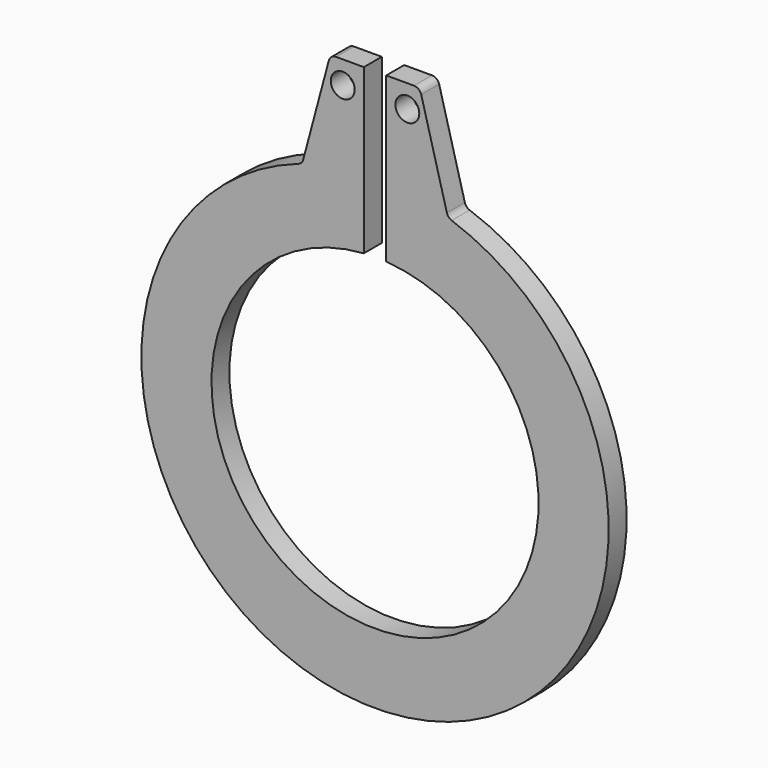
from build123d import *

# Parameters (mm, degrees)
F0_R     = 0.4064
F1_DEPTH = 0.381
F2_R     = 0.254


with BuildPart() as f1:
    # F0 (on Front) → F1 (new body, symmetric)
    with BuildSketch(Plane.XZ):
        with BuildLine():
            ThreePointArc((0.381, 5.543172), (0, -5.55625), (-0.381, 5.543172))
            Line((-0.381, 5.543172), (-0.381, 11.1125))
            Line((-0.381, 11.1125), (-1.519096, 11.1125))
            Line((-1.519096, 11.1125), (-2.475954, 7.541456))
            ThreePointArc((-2.475954, 7.541456), (0, -7.9375), (2.475954, 7.541456))
            Line((2.475954, 7.541456), (1.519096, 11.1125))
            Line((1.519096, 11.1125), (0.381, 11.1125))
            Line((0.381, 11.1125), (0.381, 5.543172))
        make_face()
        with Locations((-1.097177, 10.3378)):
            Circle(F0_R, mode=Mode.SUBTRACT)
        with Locations((1.097177, 10.3378)):
            Circle(F0_R, mode=Mode.SUBTRACT)
    extrude(amount=F1_DEPTH, both=True)

    # F2
    f2_edges = [f1.edges().sort_by_distance(p)[0] for p in [
        (-1.519096, 0, 11.1125),
        (1.519096, 0, 11.1125),
        (-2.475954, 0, 7.541456),
        (2.475954, 0, 7.541456),
    ]]
    fillet(f2_edges, radius=F2_R)


solid = f1.part
